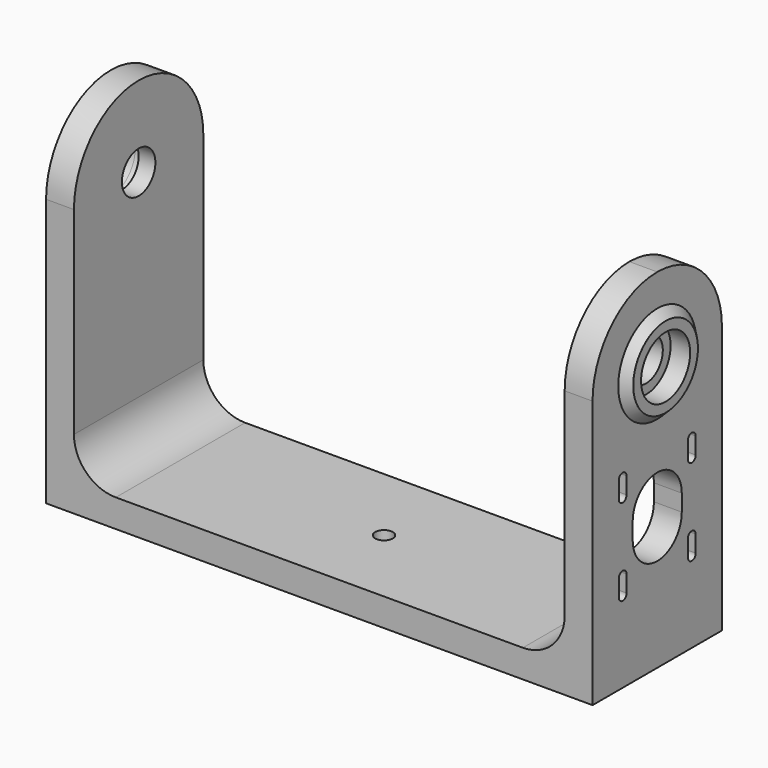
from build123d import *

# Parameters (mm, degrees)
PAD_DEPTH       = 58
POCKET_DEPTH    = 10
SKETCH002_R     = 11
POCKET001_DEPTH = 4
SKETCH003_R     = 14.5
SKETCH003_R_2   = 11
PAD001_DEPTH    = 3
SKETCH004_R     = 11
POCKET002_DEPTH = 4
SKETCH005_R     = 14.5
SKETCH005_R_2   = 11
PAD002_DEPTH    = 3
SKETCH006_R     = 3.15
POCKET003_DEPTH = 10
SKETCH007_R     = 7.5
POCKET004_DEPTH = 199.001
CHAMFER_SIZE    = 2.99


with BuildPart() as part:
    # Sketch → Pad (new body)
    with BuildSketch(Plane.XZ):
        with BuildLine():
            Line((0, 125), (0, 0))
            Line((0, 0), (196, 0))
            Line((196, 0), (196, 125))
            Line((196, 125), (186, 125))
            Line((186, 125), (186, 25))
            ThreePointArc((171, 10), (181.606602, 14.393398), (186, 25))
            Line((171, 10), (25, 10))
            ThreePointArc((10, 25), (14.393398, 14.393398), (25, 10))
            Line((10, 25), (10, 125))
            Line((10, 125), (0, 125))
        make_face()
    extrude(amount=PAD_DEPTH)

    # Sketch001 (on DatumPlane) → Pocket (cut)
    with BuildSketch(Plane.YZ.offset(196)):
        with BuildLine():
            Line((-40, 47.7), (-40, 44.7))
            ThreePointArc((-40, 44.7), (-29, 33.7), (-18, 44.7))
            Line((-18, 47.7), (-18, 44.7))
            Line((-18, 47.7), (-18, 50.7))
            ThreePointArc((-18, 50.7), (-29, 61.7), (-40, 50.7))
            Line((-40, 47.7), (-40, 50.7))
        make_face()
        with BuildLine():
            Line((-42.75, 60.2), (-42.75, 63.2))
            Line((-42.75, 63.2), (-42.75, 66.2))
            ThreePointArc((-42.75, 66.2), (-44.5, 67.95), (-46.25, 66.2))
            Line((-46.25, 66.2), (-46.25, 63.2))
            Line((-46.25, 63.2), (-46.25, 60.2))
            ThreePointArc((-46.25, 60.2), (-44.5, 58.45), (-42.75, 60.2))
        make_face()
        with BuildLine():
            Line((-11.75, 63.2), (-11.75, 60.2))
            ThreePointArc((-15.25, 60.2), (-13.5, 58.45), (-11.75, 60.2))
            Line((-15.25, 63.2), (-15.25, 60.2))
            Line((-15.25, 66.2), (-15.25, 63.2))
            ThreePointArc((-11.75, 66.2), (-13.5, 67.95), (-15.25, 66.2))
            Line((-11.75, 63.2), (-11.75, 66.2))
        make_face()
        with BuildLine():
            Line((-46.25, 35.2), (-46.25, 32.2))
            Line((-46.25, 29.200012), (-46.25, 32.2))
            ThreePointArc((-46.25, 29.200012), (-44.500006, 27.450012), (-42.75, 29.2))
            Line((-42.75, 32.2), (-42.75, 29.2))
            Line((-42.75, 35.2), (-42.75, 32.2))
            ThreePointArc((-42.75, 35.2), (-44.5, 36.95), (-46.25, 35.2))
        make_face()
        with BuildLine():
            Line((-11.75, 35.2), (-11.75, 32.2))
            Line((-11.75, 32.2), (-11.75, 29.2))
            ThreePointArc((-15.25, 29.2), (-13.5, 27.45), (-11.75, 29.2))
            Line((-15.25, 29.2), (-15.25, 32.2))
            Line((-15.25, 32.2), (-15.25, 35.2))
            ThreePointArc((-11.75, 35.2), (-13.5, 36.95), (-15.25, 35.2))
        make_face()
    extrude(amount=-POCKET_DEPTH, mode=Mode.SUBTRACT)

    # Sketch002 (on DatumPlane) → Pocket001 (cut)
    with BuildSketch(Plane.YZ.offset(196)):
        with Locations((-29, 96)):
            Circle(SKETCH002_R)
    extrude(amount=-POCKET001_DEPTH, mode=Mode.SUBTRACT)

    # Sketch003 (on DatumPlane) → Pad001 (join)
    with BuildSketch(Plane.YZ.offset(196)):
        with Locations((-29, 96)):
            Circle(SKETCH003_R)
        with Locations((-29, 96)):
            Circle(SKETCH003_R_2, mode=Mode.SUBTRACT)
    extrude(amount=PAD001_DEPTH)

    # Sketch004 → Pocket002 (cut)
    with BuildSketch(Plane.YZ):
        with Locations((-29, 96)):
            Circle(SKETCH004_R)
    extrude(amount=POCKET002_DEPTH, mode=Mode.SUBTRACT)

    # Sketch005 → Pad002 (join)
    with BuildSketch(Plane.YZ):
        with Locations((-29, 96)):
            Circle(SKETCH005_R)
        with Locations((-29, 96)):
            Circle(SKETCH005_R_2, mode=Mode.SUBTRACT)
    extrude(amount=-PAD002_DEPTH)

    # Sketch006 → Pocket003 (cut)
    with BuildSketch(Plane.XY):
        with Locations((98, -29)):
            Circle(SKETCH006_R)
    extrude(amount=POCKET003_DEPTH, mode=Mode.SUBTRACT)

    # Sketch007 (on DatumPlane) → Pocket004 (cut, through all)
    with BuildSketch(Plane.YZ.offset(196)):
        with Locations((-29, 96)):
            Circle(SKETCH007_R)
        with BuildLine():
            ThreePointArc((0, 96), (-29, 125), (-58, 96))
            Line((-58, 96), (-68, 96))
            Line((-68, 96), (-68, 136))
            Line((-68, 136), (10, 136))
            Line((10, 136), (10, 96))
            Line((10, 96), (0, 96))
        make_face()
    extrude(amount=-POCKET004_DEPTH, mode=Mode.SUBTRACT)

    # Chamfer
    chamfer_edges = [part.edges().sort_by_distance(p)[0] for p in [
        (0, -43.5, 96),
        (196, -43.5, 96),
    ]]
    chamfer(chamfer_edges, length=CHAMFER_SIZE)


solid = part.part
